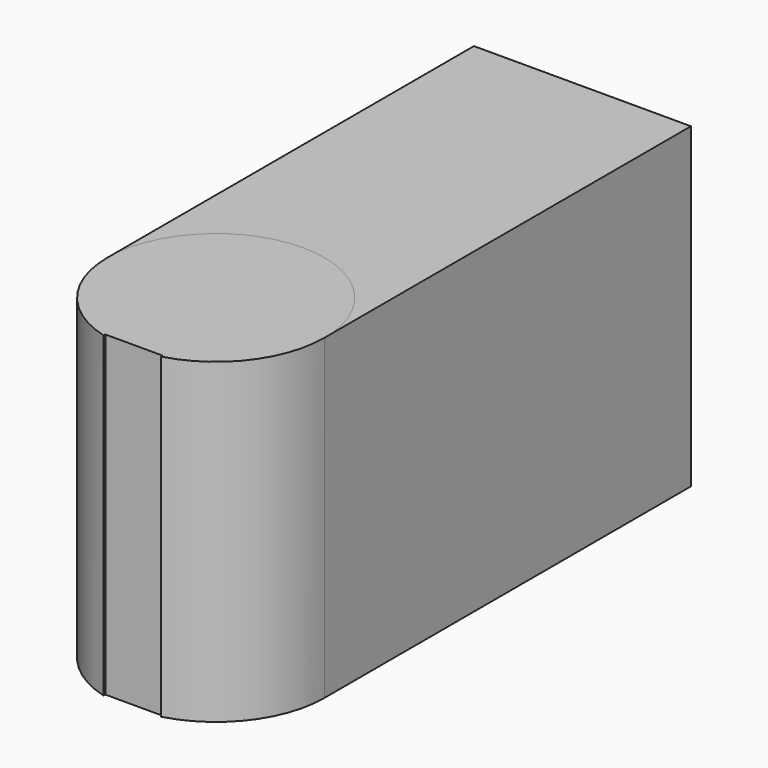
from build123d import *

# Parameters (mm, degrees)
F2_DEPTH = 51.7236292362


with BuildPart() as f2:
    # F0 (on Top) → F2 (new body)
    with BuildSketch(Plane.XY):
        with BuildLine():
            Line((-17.6984570841, -37.3641554262), (17.6984570841, -37.3641554262))
            ThreePointArc((17.6984570841, -37.3641554262), (0, -19.665698342), (-17.6984570841, -37.3641554262))
        make_face()
        with BuildLine():
            ThreePointArc((4.6735760674, -54.4343947303), (14.0703672414, -48.1000833716), (17.6984570841, -37.3641554262))
            Line((17.6984570841, -37.3641554262), (-17.6984570841, -37.3641554262))
            ThreePointArc((-17.6984570841, -37.3641554262), (-14.0703672414, -48.1000833716), (-4.6735760674, -54.4343947303))
            Line((-4.6735760674, -54.4343947303), (-4.6735760674, -54.0850054095))
            Line((-4.6735760674, -54.0850054095), (4.6735760674, -54.0850054095))
            Line((4.6735760674, -54.0850054095), (4.6735760674, -54.4343947303))
        make_face()
    extrude(amount=F2_DEPTH)


with BuildPart() as f2b:
    # F1 (on face) → F2, piece 2 (new body)
    with BuildSketch(Plane.XY):
        with BuildLine():
            ThreePointArc((-17.6984570841, -37.3641554262), (0, -19.665698342), (17.6984570841, -37.3641554262))
            Line((17.6984570841, -37.3641554262), (17.6984570841, 37.3641554262))
            Line((17.6984570841, 37.3641554262), (-17.6984570841, 37.3641554262))
            Line((-17.6984570841, 37.3641554262), (-17.6984570841, -37.3641554262))
        make_face()
    extrude(amount=F2_DEPTH)


solid = Compound([f2.part, f2b.part])
